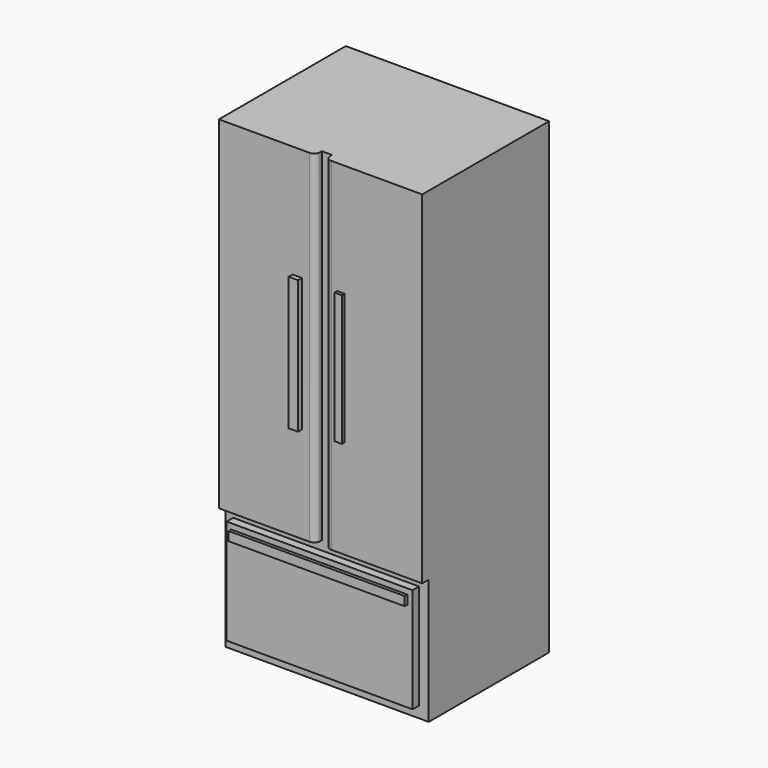
from build123d import *

# Parameters (mm, degrees)
F0_W      = 762
F0_H      = 563.88
F1_DEPTH  = 1752.6
F2_W      = 696.7959
F2_H      = 392.960511
F3_DEPTH  = 30.48
F4_W      = 361.621648
F4_H      = 1283.220664
F4_W_2    = 362.307822
F5_DEPTH  = 30.48
F6_R      = 22.075569
F7_W      = 35.273701
F7_H      = 499.968111
F8_DEPTH  = 18.288
F9_W      = 27.252704
F9_H      = 490.54879
F10_DEPTH = 12.192
F11_W     = 660.017151
F11_H     = 33.723503
F12_DEPTH = 12.192


with BuildPart() as f1:
    # F0 (on Top) → F1 (new body)
    with BuildSketch(Plane.XY):
        with Locations((381, -281.94)):
            Rectangle(F0_W, F0_H)
    extrude(amount=F1_DEPTH)

    # F2 (on face) → F3 (join)
    with BuildSketch(Plane.XZ.offset(563.88)):
        with Locations((377.334675, 238.608349)):
            Rectangle(F2_W, F2_H)
    extrude(amount=F3_DEPTH)

    # F4 (on face) → F5 (join)
    with BuildSketch(Plane.XZ.offset(563.88)):
        with Locations((180.810824, 1110.989668)):
            Rectangle(F4_W, F4_H)
        with Locations((580.846089, 1110.989668)):
            Rectangle(F4_W_2, F4_H)
    extrude(amount=F5_DEPTH)

    # F6
    f6_edges = [f1.edges().sort_by_distance(p)[0] for p in [
        (361.621648, -594.36, 1110.989668),
        (399.692178, -594.36, 1110.989668),
    ]]
    fillet(f6_edges, radius=F6_R)

    # F7 (on face) → F8 (join)
    with BuildSketch(Plane.XZ.offset(594.36)):
        with Locations((293.69308, 1080.406278)):
            Rectangle(F7_W, F7_H)
    extrude(amount=F8_DEPTH)

    # F9 (on face) → F10 (join)
    with BuildSketch(Plane.XZ.offset(594.36)):
        with Locations((456.993356, 1084.997684)):
            Rectangle(F9_W, F9_H)
    extrude(amount=F10_DEPTH)

    # F11 (on face) → F12 (join)
    with BuildSketch(Plane.XZ.offset(594.36)):
        with Locations((376.0538, 397.549763)):
            Rectangle(F11_W, F11_H)
    extrude(amount=F12_DEPTH)


solid = f1.part
